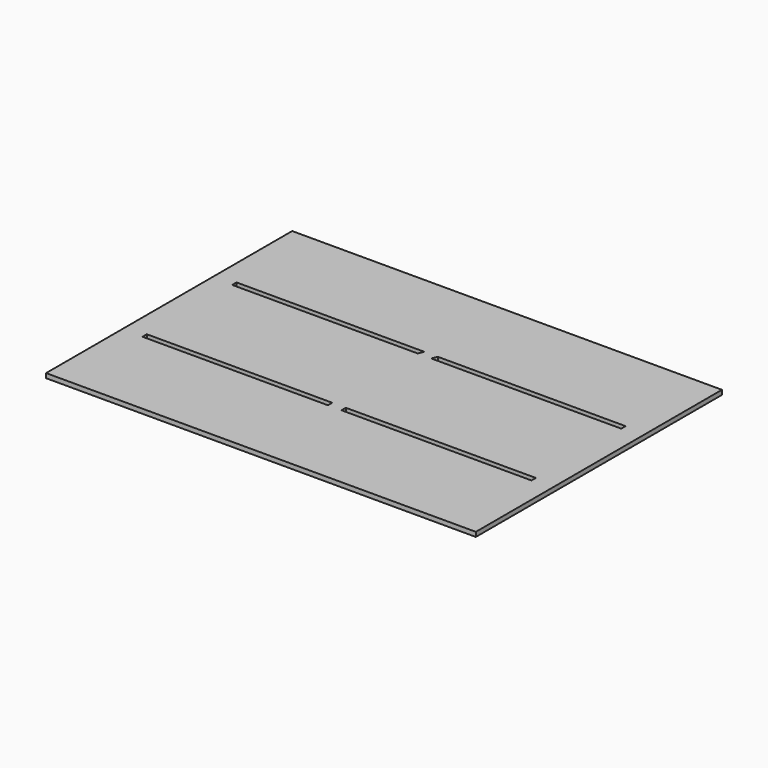
from build123d import *

# Parameters (mm, degrees)
F0_W     = 475
F0_H     = 340
F0_W_2   = 205
F0_H_2   = 6
F0_W_3   = 210
F1_DEPTH = 5


with BuildPart() as f1:
    # F0 (on Top) → F1 (new body)
    with BuildSketch(Plane.XY):
        Rectangle(F0_W, F0_H)
        with Locations((-112.5, -62)):
            Rectangle(F0_W_2, F0_H_2, mode=Mode.SUBTRACT)
        with Locations((110, -62)):
            Rectangle(F0_W_3, F0_H_2, mode=Mode.SUBTRACT)
        Polygon((-10, 59), (-215, 59), (-215, 65), (-7.5, 65), align=None, mode=Mode.SUBTRACT)
        Polygon((215, 65), (215, 59), (5, 59), (7.5, 65), align=None, mode=Mode.SUBTRACT)
    extrude(amount=F1_DEPTH)


solid = f1.part
